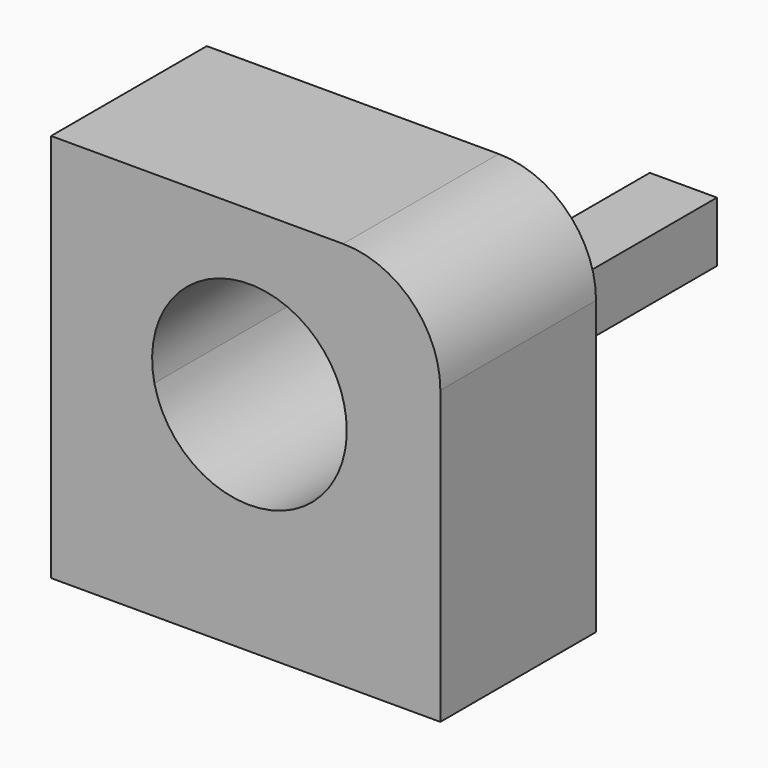
from build123d import *

# Parameters (mm, degrees)
F1_DEPTH = 10
F2_R     = 5
F3_W     = 3.4494120628
F3_H     = 3.0921520665
F4_DEPTH = 25


with BuildPart() as f1:
    # F0 (on Front) → F1 (new body)
    with BuildSketch(Plane.XZ):
        with BuildLine():
            Line((9.80909843, 8.3819362969), (0.1013143445, 8.3819362969))
            ThreePointArc((0.1013143445, 8.3819362969), (1.7648005084, 6.3186167265), (3.0204653947, 3.9845688349))
            ThreePointArc((3.0204653947, 3.9845688349), (4.477852553, 2.2245980566), (5, 0))
            ThreePointArc((5, 0), (4.9706311589, -0.5411338858), (4.882869647, -1.0759107816))
            ThreePointArc((4.882869647, -1.0759107816), (6.6796718733, -2.1122029912), (8.2635629596, -3.4514896709))
            ThreePointArc((8.2635629596, -3.4514896709), (9.0582816008, -2.8412785407), (9.80909843, -2.1777957366))
            Line((9.80909843, -2.1777957366), (9.80909843, 8.3819362969))
        make_face()
        with BuildLine():
            Line((0.1013143445, 8.3819362969), (-10.19090157, 8.3819362969))
            Line((-10.19090157, 8.3819362969), (-10.19090157, -2.1777957366))
            ThreePointArc((-10.19090157, -2.1777957366), (-9.332541843, -2.9290474683), (-8.4179443125, -3.6107159674))
            ThreePointArc((-8.4179443125, -3.6107159674), (-6.7700976602, -2.1763910822), (-4.882869647, -1.0759107816))
            ThreePointArc((-4.882869647, -1.0759107816), (-2.6961548337, 4.2107896068), (3.0204653947, 3.9845688349))
            ThreePointArc((3.0204653947, 3.9845688349), (1.7648005084, 6.3186167265), (0.1013143445, 8.3819362969))
        make_face()
        with BuildLine():
            ThreePointArc((-8.4179443125, -3.6107159674), (-9.3833116946, -4.7673071134), (-10.19090157, -6.0390916293))
            Line((-10.19090157, -6.0390916293), (-10.19090157, -11.6180637031))
            Line((-10.19090157, -11.6180637031), (0.1013143445, -11.6180637031))
            ThreePointArc((0.1013143445, -11.6180637031), (2.2019143942, -8.8532431003), (3.5769410003, -5.6648178828))
            ThreePointArc((3.5769410003, -5.6648178828), (-2.6456826628, -5.9527067194), (-8.4179443125, -3.6107159674))
        make_face()
        with BuildLine():
            ThreePointArc((-4.882869647, -1.0759107816), (-6.7700976602, -2.1763910822), (-8.4179443125, -3.6107159674))
            ThreePointArc((-8.4179443125, -3.6107159674), (-2.6456826628, -5.9527067194), (3.5769410003, -5.6648178828))
            ThreePointArc((3.5769410003, -5.6648178828), (3.9117762713, -4.2721522728), (4.1061096807, -2.8530445651))
            ThreePointArc((4.1061096807, -2.8530445651), (-0.969737146, -4.9050596192), (-4.882869647, -1.0759107816))
        make_face()
        with BuildLine():
            ThreePointArc((-8.4179443125, -3.6107159674), (-9.332541843, -2.9290474683), (-10.19090157, -2.1777957366))
            Line((-10.19090157, -2.1777957366), (-10.19090157, -6.0390916293))
            ThreePointArc((-10.19090157, -6.0390916293), (-9.3833116946, -4.7673071134), (-8.4179443125, -3.6107159674))
        make_face()
        with BuildLine():
            ThreePointArc((4.1061096807, -2.8530445651), (3.9117762713, -4.2721522728), (3.5769410003, -5.6648178828))
            ThreePointArc((3.5769410003, -5.6648178828), (6.0196461638, -4.7686164468), (8.2635629596, -3.4514896709))
            ThreePointArc((8.2635629596, -3.4514896709), (6.6796718733, -2.1122029912), (4.882869647, -1.0759107816))
            ThreePointArc((4.882869647, -1.0759107816), (4.5814832161, -2.002501321), (4.1061096807, -2.8530445651))
        make_face()
        with BuildLine():
            ThreePointArc((8.2635629596, -3.4514896709), (6.0196461638, -4.7686164468), (3.5769410003, -5.6648178828))
            ThreePointArc((3.5769410003, -5.6648178828), (2.2019143942, -8.8532431003), (0.1013143445, -11.6180637031))
            Line((0.1013143445, -11.6180637031), (9.80909843, -11.6180637031))
            Line((9.80909843, -11.6180637031), (9.80909843, -5.3922310519))
            ThreePointArc((9.80909843, -5.3922310519), (9.0882832098, -4.3804872781), (8.2635629596, -3.4514896709))
        make_face()
        with BuildLine():
            Line((9.80909843, -5.3922310519), (9.80909843, -2.1777957366))
            ThreePointArc((9.80909843, -2.1777957366), (9.0582816008, -2.8412785407), (8.2635629596, -3.4514896709))
            ThreePointArc((8.2635629596, -3.4514896709), (9.0882832098, -4.3804872781), (9.80909843, -5.3922310519))
        make_face()
    extrude(amount=F1_DEPTH)

    # F2
    f2_edges = [f1.edges().sort_by_distance(p)[0] for p in [
        (9.809098, -5, 8.381936),
    ]]
    fillet(f2_edges, radius=F2_R)

    # F3 (on face) → F4 (join)
    with BuildSketch(Plane(origin=(0, 0, 0), x_dir=(-1, 0, 0), z_dir=(0, 1, 0))):
        with Locations((5.7046995498, -8.1599843688)):
            Rectangle(F3_W, F3_H)
    extrude(amount=F4_DEPTH)


solid = f1.part
